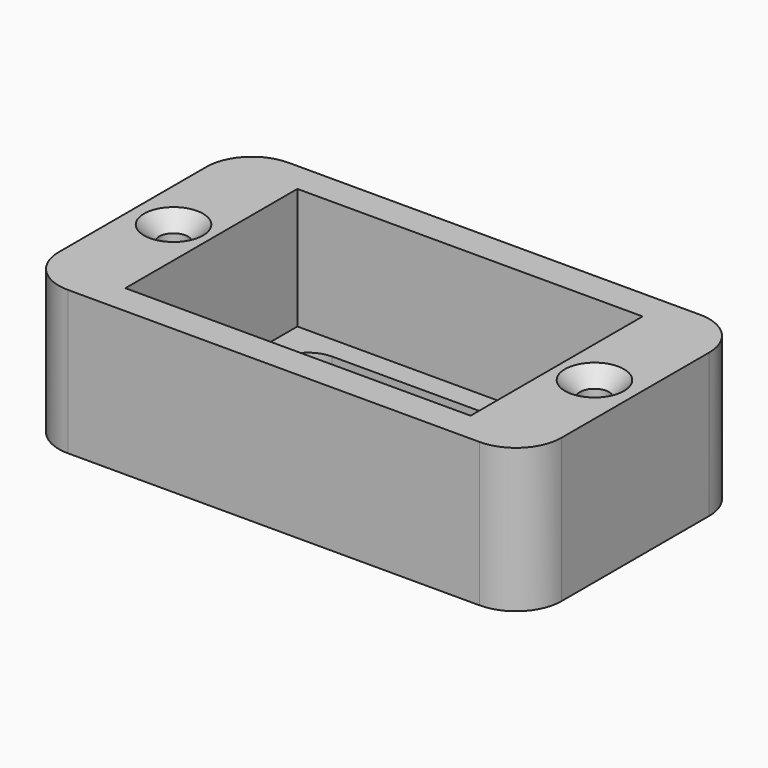
from build123d import *

# Parameters (mm, degrees)
SKETCH_W      = 33.2
SKETCH_H      = 18.2
SKETCH_R      = 0.95
SKETCH_W_2    = 22.8
SKETCH_H_2    = 14.2
PAD_DEPTH     = 9.5
SKETCH001_W   = 22.8
SKETCH001_H   = 14.2
SKETCH001_W_2 = 19.8
SKETCH001_H_2 = 11.2
PAD001_DEPTH  = 1.5
CHAMFER_SIZE  = 1
FILLET_R      = 2
FILLET001_R   = 3


with BuildPart() as part:
    # Sketch → Pad (new body)
    with BuildSketch(Plane.XY):
        Rectangle(SKETCH_W, SKETCH_H)
        with Locations((-13.9, 0)):
            Circle(SKETCH_R, mode=Mode.SUBTRACT)
        with Locations((13.9, 0)):
            Circle(SKETCH_R, mode=Mode.SUBTRACT)
        Rectangle(SKETCH_W_2, SKETCH_H_2, mode=Mode.SUBTRACT)
    extrude(amount=PAD_DEPTH)

    # Sketch001 (on Face11 of Pad) → Pad001 (join)
    with BuildSketch(Plane(origin=(0, 0, 0), x_dir=(1, 0, 0), z_dir=(0, 0, -1))):
        Rectangle(SKETCH001_W, SKETCH001_H)
        Rectangle(SKETCH001_W_2, SKETCH001_H_2, mode=Mode.SUBTRACT)
    extrude(amount=-PAD001_DEPTH)

    # Chamfer
    chamfer_edges = [part.edges().sort_by_distance(p)[0] for p in [
        (12.95, 0, 9.5),
        (-14.85, 0, 9.5),
    ]]
    chamfer(chamfer_edges, length=CHAMFER_SIZE)

    # Fillet
    fillet_edges = [part.edges().sort_by_distance(p)[0] for p in [
        (9.9, -5.6, 0.75),
        (-9.9, -5.6, 0.75),
        (-9.9, 5.6, 0.75),
        (9.9, 5.6, 0.75),
    ]]
    fillet(fillet_edges, radius=FILLET_R)

    # Fillet001
    fillet001_edges = [part.edges().sort_by_distance(p)[0] for p in [
        (16.6, 9.1, 4.75),
        (-16.6, 9.1, 4.75),
        (16.6, -9.1, 4.75),
        (-16.6, -9.1, 4.75),
    ]]
    fillet(fillet001_edges, radius=FILLET001_R)


solid = part.part
